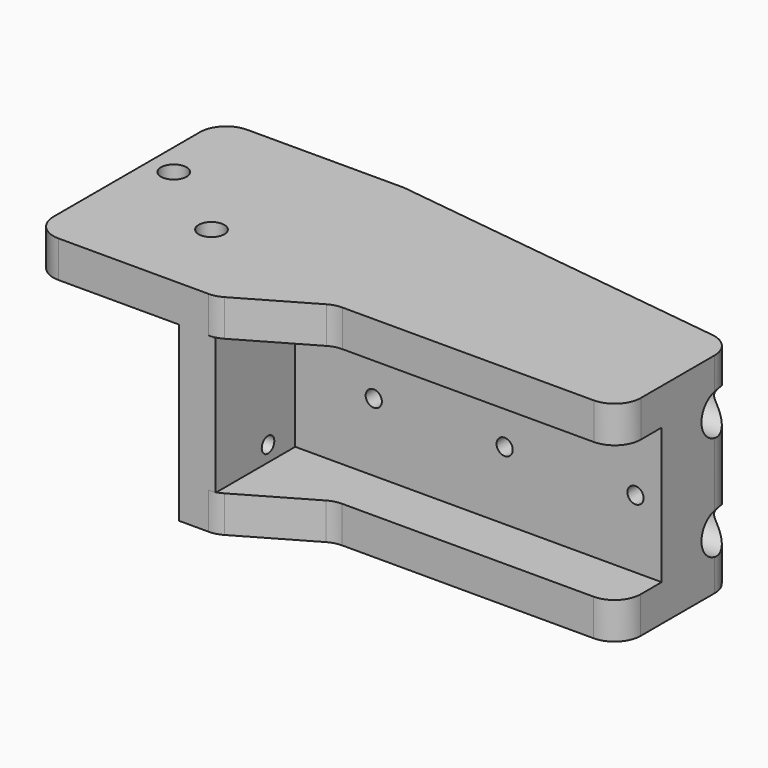
from build123d import *

# Parameters (mm, degrees)
F1_DEPTH  = 7
F3_DEPTH  = 26
F4_R      = 2.45
F5_DEPTH  = 7
F6_R      = 2
F7_R      = 1.5
F8_DEPTH  = 77.001
F9_R      = 4
F10_DEPTH = 70
F11_R     = 1.55
F12_DEPTH = 26.001
F13_W     = 58
F13_H     = 6
F14_DEPTH = 10


with BuildPart() as f1:
    # F0 (on Top) → F1 (new body)
    with BuildSketch(Plane.XY):
        with BuildLine():
            Line((0, 45), (0, 0))
            Line((0, 0), (5.660254, 0))
            ThreePointArc((5.660254, 0), (6.954349, 0.170371), (8.160254, 0.669873))
            Line((8.160254, 0.669873), (21.428203, 8.330127))
            ThreePointArc((21.428203, 8.330127), (22.634108, 8.829629), (23.928203, 9))
            Line((23.928203, 9), (72, 9))
            ThreePointArc((72, 9), (75.535534, 10.464466), (77, 14))
            Line((77, 14), (77, 31.6017))
            ThreePointArc((77, 31.6017), (75.754201, 34.90412), (72.637609, 36.560879))
            Line((72.637609, 36.560879), (7, 45))
            Line((7, 45), (0, 45))
        make_face()
    extrude(amount=F1_DEPTH)

    # F2 (on face) → F3 (join)
    with BuildSketch(Plane.XY.offset(7)):
        with BuildLine():
            Line((0, 45), (0, 0))
            Line((0, 0), (7, 0))
            Line((7, 0), (7, 19))
            Line((7, 19), (77, 19))
            Line((77, 19), (77, 31.6017))
            ThreePointArc((77, 31.6017), (75.754201, 34.90412), (72.637609, 36.560879))
            Line((72.637609, 36.560879), (7, 45))
            Line((7, 45), (0, 45))
        make_face()
    extrude(amount=F3_DEPTH)

    # F4 (on face) → F5 (join)
    with BuildSketch(Plane.XY.offset(33)):
        with BuildLine():
            Line((0, 45), (0, 0))
            Line((0, 0), (5.660254, 0))
            ThreePointArc((5.660254, 0), (6.954349, 0.170371), (8.160254, 0.669873))
            Line((8.160254, 0.669873), (21.483041, 8.361788))
            ThreePointArc((21.483041, 8.361788), (22.688946, 8.86129), (23.983041, 9.03166))
            Line((23.983041, 9.03166), (72, 9.03166))
            ThreePointArc((72, 9.03166), (75.535534, 10.496127), (77, 14.03166))
            Line((77, 14.03166), (77, 31.631387))
            ThreePointArc((77, 31.631387), (75.753466, 34.934642), (72.635402, 36.590849))
            Line((72.635402, 36.590849), (7, 45))
            Line((7, 45), (0, 45))
        make_face()
        with BuildLine():
            Line((-23, 0), (0, 0))
            Line((0, 0), (0, 45))
            Line((0, 45), (-23, 45))
            ThreePointArc((-23, 45), (-26.535534, 43.535534), (-28, 40))
            Line((-28, 40), (-28, 5))
            ThreePointArc((-28, 5), (-26.535534, 1.464466), (-23, 0))
        make_face()
        with Locations((-7, 16.5)):
            Circle(F4_R, mode=Mode.SUBTRACT)
        with Locations((-23, 27.5)):
            Circle(F4_R, mode=Mode.SUBTRACT)
    extrude(amount=F5_DEPTH)

    # F6
    f6_edges = [f1.edges().sort_by_distance(p)[0] for p in [
        (-9.45, 16.5, 33),
        (-25.45, 27.5, 33),
    ]]
    fillet(f6_edges, radius=F6_R)

    # F7 (on face) → F8 (cut, through all)
    with BuildSketch(Plane(origin=(0, 0, 0), x_dir=(0, -1, 0), z_dir=(-1, 0, 0))):
        with Locations((-32.5, 30)):
            Circle(F7_R)
        with Locations((-12.5, 30)):
            Circle(F7_R)
        with Locations((-12.5, 10)):
            Circle(F7_R)
        with Locations((-32.5, 10)):
            Circle(F7_R)
    extrude(amount=-F8_DEPTH, mode=Mode.SUBTRACT)

    # F9 (on face) → F10 (cut)
    with BuildSketch(Plane.YZ.offset(77)):
        with Locations((32.5, 30)):
            Circle(F9_R)
        with Locations((32.5, 10)):
            Circle(F9_R)
    extrude(amount=-F10_DEPTH, mode=Mode.SUBTRACT)

    # F11 (on face) → F12 (cut, through all)
    with BuildSketch(Plane.XZ.offset(-19)):
        with Locations((22, 20)):
            Circle(F11_R)
        with Locations((47, 20)):
            Circle(F11_R)
        with Locations((72, 20)):
            Circle(F11_R)
    extrude(amount=-F12_DEPTH, mode=Mode.SUBTRACT)

    # F13 (on face) → F14 (cut)
    with BuildSketch(Plane(origin=(0, 45, 0), x_dir=(-1, 0, 0), z_dir=(0, 1, 0))):
        with Locations((-46, 20)):
            Rectangle(F13_W, F13_H)
    extrude(amount=-F14_DEPTH, mode=Mode.SUBTRACT)


solid = f1.part
